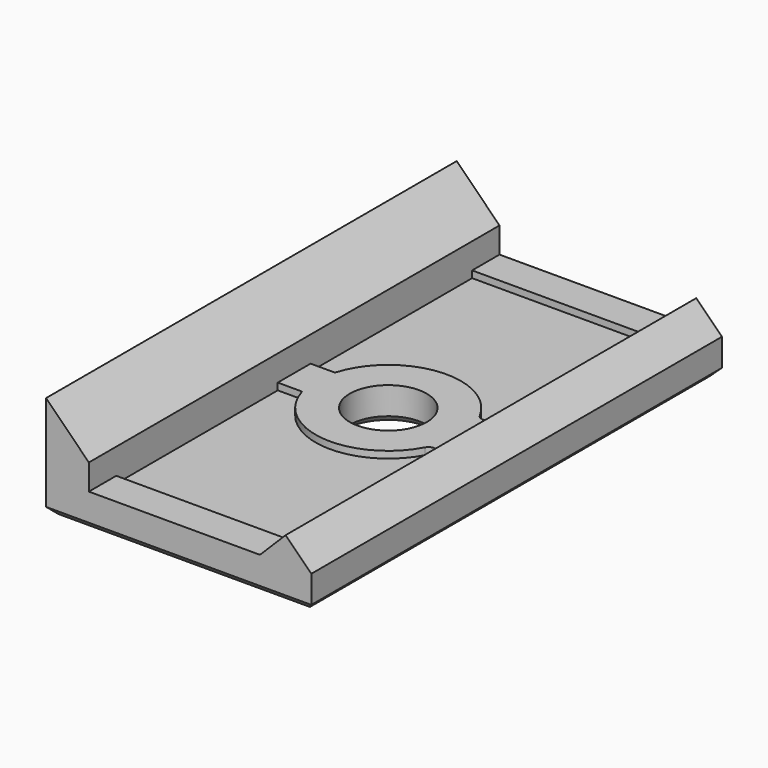
from build123d import *

# Parameters (mm, degrees)
PAD_DEPTH       = 15
SKETCH001_R     = 2.25
HOLE_DEPTH      = 6.001
POCKET010_DEPTH = 0.4
CHAMFER004_SIZE = 0.4


with BuildPart() as part:
    # Sketch → Pad (new body, symmetric)
    with BuildSketch(Plane.XZ):
        Polygon((0, 6), (0, 0), (15.5, 0), (15.5, 2), (14, 3.5), (12.5, 2), (2.5, 2), (2.5, 3.5), align=None)
    extrude(amount=PAD_DEPTH, both=True)

    # Sketch001 → Hole (cut, through all)
    with BuildSketch(Plane.XY):
        with Locations((8, 0)):
            Circle(SKETCH001_R)
    extrude(amount=HOLE_DEPTH, mode=Mode.SUBTRACT)

    # Sketch013 (on Face11 of Hole) → Pocket010 (cut)
    with BuildSketch(Plane(origin=(0, 0, 2), x_dir=(-1, 0, 0), z_dir=(0, 0, 1))):
        with BuildLine():
            Line((-12.5, 13), (-2.5, 13))
            Line((-2.5, 13), (-2.5, 1.2))
            Line((-2.5, 1.2), (-3.92293, 1.2))
            ThreePointArc((-3.92293, 1.2), (-7.565024, 4.227682), (-11.747312, 2.005032))
            ThreePointArc((-12.5, 2.193741), (-12.197275, 1.805749), (-11.747312, 2.005032))
            Line((-12.5, 2.193741), (-12.5, 13))
        make_face()
        with BuildLine():
            Line((-12.5, -13), (-2.5, -13))
            Line((-2.5, -13), (-2.5, -1.2))
            Line((-2.5, -1.2), (-3.92293, -1.2))
            ThreePointArc((-11.747312, -2.005032), (-7.565024, -4.227682), (-3.92293, -1.2))
            ThreePointArc((-11.747312, -2.005032), (-12.197275, -1.805749), (-12.5, -2.193741))
            Line((-12.5, -2.193741), (-12.5, -13))
        make_face()
    extrude(amount=-POCKET010_DEPTH, mode=Mode.SUBTRACT)

    # Chamfer004
    chamfer004_edges = [part.edges().sort_by_distance(p)[0] for p in [
        (0, 0, 0),
        (7.75, 15, 0),
        (7.75, -15, 0),
        (15.5, 0, 0),
        (10.25, 0, 0),
    ]]
    chamfer(chamfer004_edges, length=CHAMFER004_SIZE)


solid = part.part
